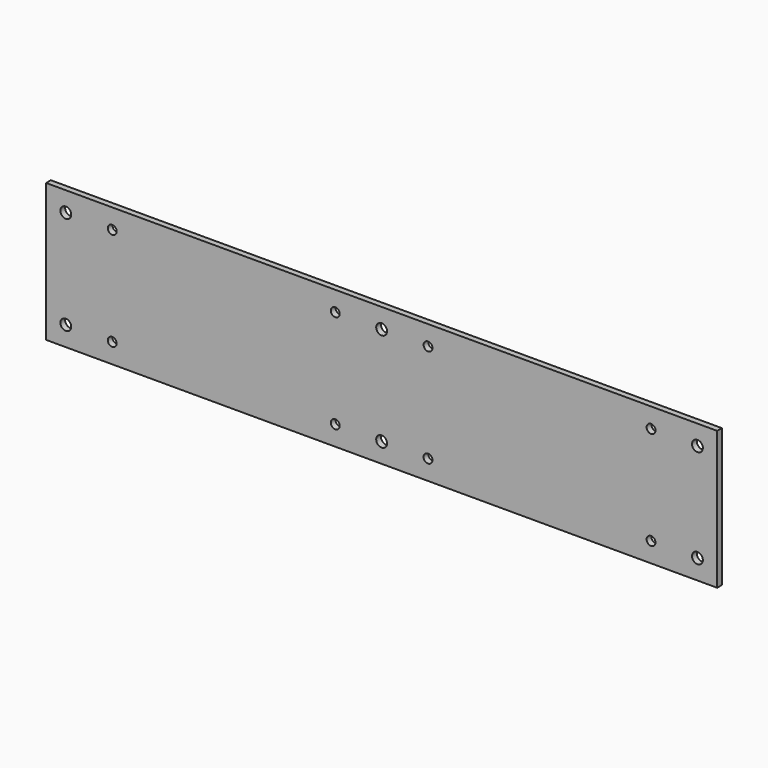
from build123d import *

# Parameters (mm, degrees)
F0_W     = 340
F0_H     = 70
F0_R     = 2.25
F1_DEPTH = 3
F2_D     = 5.5


with BuildPart() as f1:
    # F0 (on Front) → F1 (new body)
    with BuildSketch(Plane.XZ):
        Rectangle(F0_W, F0_H)
        with Locations((-160, -25)):
            Circle(F0_R, mode=Mode.SUBTRACT)
        with Locations((-136.5, -25)):
            Circle(F0_R, mode=Mode.SUBTRACT)
        with Locations((-23.5, -25)):
            Circle(F0_R, mode=Mode.SUBTRACT)
        with Locations((0, -25)):
            Circle(F0_R, mode=Mode.SUBTRACT)
        with Locations((23.5, -25)):
            Circle(F0_R, mode=Mode.SUBTRACT)
        with Locations((136.5, -25)):
            Circle(F0_R, mode=Mode.SUBTRACT)
        with Locations((160, -25)):
            Circle(F0_R, mode=Mode.SUBTRACT)
        with Locations((-160, 25)):
            Circle(F0_R, mode=Mode.SUBTRACT)
        with Locations((-136.5, 25)):
            Circle(F0_R, mode=Mode.SUBTRACT)
        with Locations((-23.5, 25)):
            Circle(F0_R, mode=Mode.SUBTRACT)
        with Locations((0, 25)):
            Circle(F0_R, mode=Mode.SUBTRACT)
        with Locations((23.5, 25)):
            Circle(F0_R, mode=Mode.SUBTRACT)
        with Locations((136.5, 25)):
            Circle(F0_R, mode=Mode.SUBTRACT)
        with Locations((160, 25)):
            Circle(F0_R, mode=Mode.SUBTRACT)
    extrude(amount=F1_DEPTH)

    # F2 (through all)
    with Locations(Plane(origin=(0, 0, 0), x_dir=(1, 0, 0), z_dir=(0, 1, 0))):
        with Locations((-160, -25), (-160, 25), (0, -25), (0, 25), (160, -25), (160, 25)):
            Hole(F2_D / 2)


solid = f1.part
